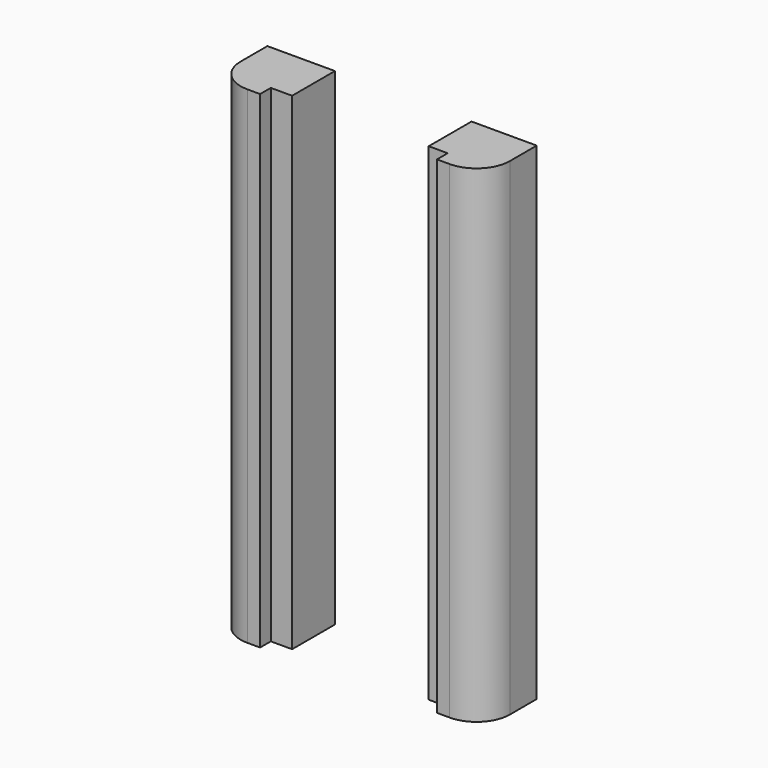
from build123d import *

# Parameters (mm, degrees)
F0_W     = 102.269672
F0_H     = 185.038254
F1_DEPTH = 25.4
F2_R     = 12.7
F3_W     = 51.877454
F3_H     = 185.038254
F4_DEPTH = 21.59
F5_W     = 67.168505
F5_H     = 185.038254
F6_DEPTH = 5.08


with BuildPart() as f1:
    # F0 (on Front) → F1 (new body)
    with BuildSketch(Plane.XZ):
        with Locations((3.938619, 18.561065)):
            Rectangle(F0_W, F0_H)
    extrude(amount=F1_DEPTH)

    # F2
    f2_edges = [f1.edges().sort_by_distance(p)[0] for p in [
        (55.073455, -25.4, 18.561065),
        (-47.196217, -25.4, 18.561065),
    ]]
    fillet(f2_edges, radius=F2_R)

    # F3 (on face) → F4 (cut)
    with BuildSketch(Plane(origin=(0, 0, 0), x_dir=(-1, 0, 0), z_dir=(0, 1, 0))):
        with Locations((-4.387645, 18.561065)):
            Rectangle(F3_W, F3_H)
    extrude(amount=-F4_DEPTH, mode=Mode.SUBTRACT)

    # F5 (on face) → F6 (cut)
    with BuildSketch(Plane.XZ.offset(25.4)):
        with Locations((3.938623, 18.561065)):
            Rectangle(F5_W, F5_H)
    extrude(amount=-F6_DEPTH, mode=Mode.SUBTRACT)


solid = f1.part
